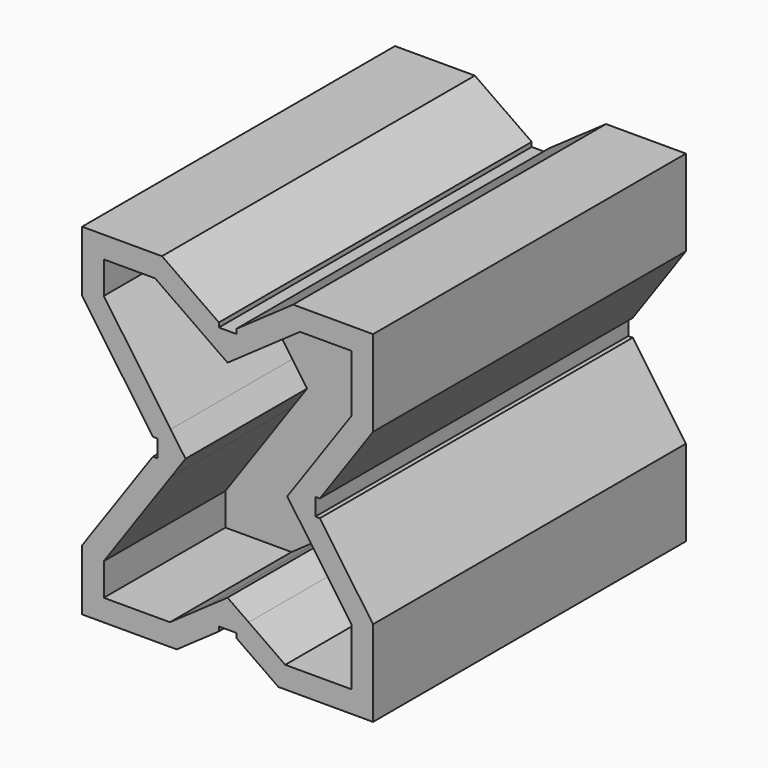
from build123d import *

# Parameters (mm, degrees)
F1_DEPTH = 45.025
F3_DEPTH = 35


with BuildPart() as f1:
    # F0 (on Front) → F1 (new body)
    with BuildSketch(Plane.XZ):
        Polygon((18.4, 0), (0, 0), (0, -14), (16.314836, -37.3), (17.339836, -37.3), (17.339836, -38.763852), (17.715251, -39.3), (17.339836, -39.836148), (17.339836, -41.3), (16.314836, -41.3), (0, -64.6), (0, -78.6), (21.8, -78.6), (31.5, -71.807987), (31.5, -70.782987), (32.963852, -70.782987), (33.5, -70.407572), (34.036148, -70.782987), (35.5, -70.782987), (35.5, -71.807987), (45.2, -78.6), (67, -78.6), (67, -58.8), (54.746368, -41.3), (53.721368, -41.3), (53.721368, -39.836148), (53.345953, -39.3), (53.721368, -38.763852), (53.721368, -37.3), (54.746368, -37.3), (67, -19.8), (67, 0), (48.6, 0), (35.5, -9.172719), (35.5, -10.197719), (34.036148, -10.197719), (33.5, -10.573134), (32.963852, -10.197719), (31.5, -10.197719), (31.5, -9.172719), align=None)
        Polygon((53.721368, -39.836148), (53.721368, -38.763852), (53.345953, -39.3), align=None)
        Polygon((17.715251, -39.3), (17.339836, -38.763852), (17.339836, -39.836148), align=None)
        Polygon((34.036148, -10.197719), (32.963852, -10.197719), (33.5, -10.573134), align=None)
        Polygon((33.5, -70.407572), (32.963852, -70.782987), (34.036148, -70.782987), align=None)
    extrude(amount=F1_DEPTH)

    # F2 (on face) → F3 (cut)
    with BuildSketch(Plane.XZ.offset(45.025)):
        Polygon((28.632118, -13.268479), (16.823506, -5), (5, -5), (5, -12.423506), (20.410596, -34.432118), (23.819123, -39.299999), (20.410595, -44.167881), (4.999998, -66.176493), (4.999998, -73.600002), (20.223507, -73.600002), (28.632119, -67.712228), (33.500001, -64.3037), (38.367882, -67.712227), (46.776494, -73.6), (62, -73.6), (62, -60.376494), (50.650608, -44.167882), (47.24208, -39.3), (50.650608, -34.432118), (62, -18.223506), (62, -5), (50.176494, -5), (38.367882, -13.268479), (33.5, -16.677007), align=None)
    extrude(amount=-F3_DEPTH, mode=Mode.SUBTRACT)

    # F4: F1 across face


with BuildPart() as f1_1:
    add(f1.part)
    add(f1.part.mirror(Plane(origin=(34.584807, 0, -39.813495), x_dir=(1, 0, 0), z_dir=(0, 1, 0))))


solid = f1_1.part
